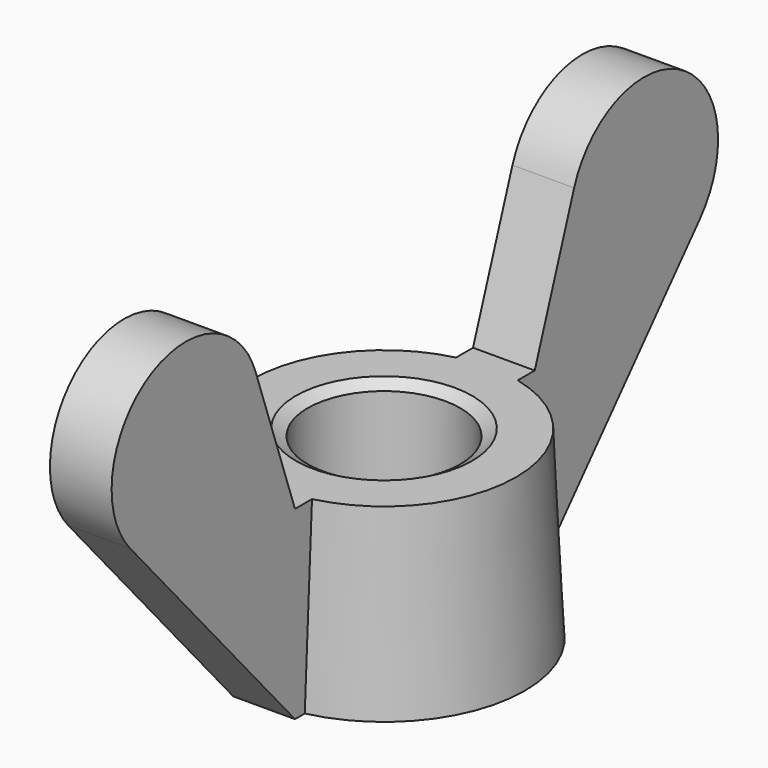
from build123d import *

# Parameters (mm, degrees)
PAD_DEPTH = 3.5


with BuildPart() as pad:
    # Sketch001 → Pad (new body, symmetric)
    with BuildSketch(Plane.YZ):
        with BuildLine():
            Line((11, 0), (11, 21))
            Line((11, 21), (17, 21))
            Line((17, 21), (22.589568, 36.968909))
            ThreePointArc((40.381508, 26.562289), (37.80128, 42.563467), (22.589568, 36.968909))
            Line((17, 0), (40.381508, 26.562289))
            Line((11, 0), (17, 0))
        make_face()
        with BuildLine():
            Line((-40.381517, 26.562321), (-17.000046, 0))
            Line((-17.000046, 0), (-11.000046, 0))
            Line((-11.000046, 0), (-11.000046, 21))
            Line((-11.000046, 21), (-17.000046, 21))
            Line((-17.000046, 21), (-22.589566, 36.968926))
            ThreePointArc((-22.589566, 36.968926), (-37.801272, 42.563494), (-40.381517, 26.562321))
        make_face()
    extrude(amount=PAD_DEPTH, both=True)


with BuildPart() as obj1:
    # Sketch → Revolution (revolve)
    with BuildSketch(Plane.YZ):
        Polygon((10, 0), (8.645, 0.78231), (8.645, 20.21769), (10, 21), (15, 21), (16, 0), align=None)
    revolve(axis=Axis((0, 0, 0), (0, 0, 1)))

    # Fusion: union Pad
    add(pad.part)


solid = obj1.part
